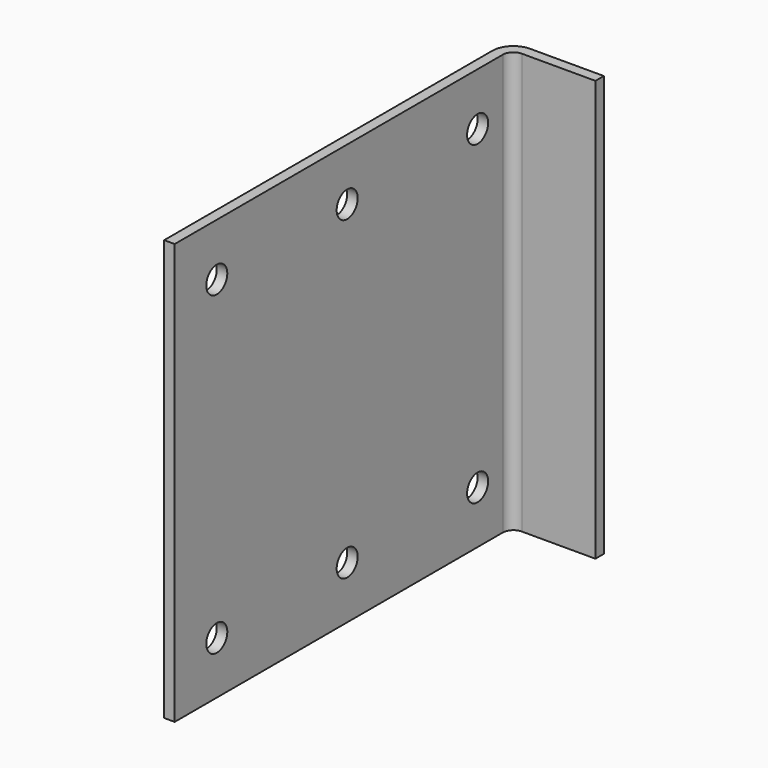
from build123d import *

# Parameters (mm, degrees)
F1_DEPTH = 254
F2_R     = 7.9375
F3_DEPTH = 25.4


with BuildPart() as f1:
    # F0 (on Top) → F1 (new body)
    with BuildSketch(Plane.XY):
        with BuildLine():
            Line((-6.35, 0), (0, 0))
            Line((0, 0), (0, 247.65))
            ThreePointArc((0, 247.65), (1.859872, 252.140128), (6.35, 254))
            Line((6.35, 254), (50.8, 254))
            Line((50.8, 254), (50.8, 260.35))
            Line((50.8, 260.35), (6.35, 260.35))
            ThreePointArc((6.35, 260.35), (-2.630256, 256.630256), (-6.35, 247.65))
            Line((-6.35, 247.65), (-6.35, 0))
        make_face()
    extrude(amount=F1_DEPTH)

    # F2 (on face) → F3 (cut)
    with BuildSketch(Plane(origin=(-6.35, 0, 0), x_dir=(0, -1, 0), z_dir=(-1, 0, 0))):
        with Locations((-228.6, 31.75)):
            Circle(F2_R)
        with Locations((-228.599995, 222.25)):
            Circle(F2_R)
        with Locations((-130.175, 222.25)):
            Circle(F2_R)
        with Locations((-130.175, 31.75)):
            Circle(F2_R)
        with Locations((-31.75, 31.75)):
            Circle(F2_R)
        with Locations((-31.75, 222.25)):
            Circle(F2_R)
    extrude(amount=-F3_DEPTH, mode=Mode.SUBTRACT)


solid = f1.part
